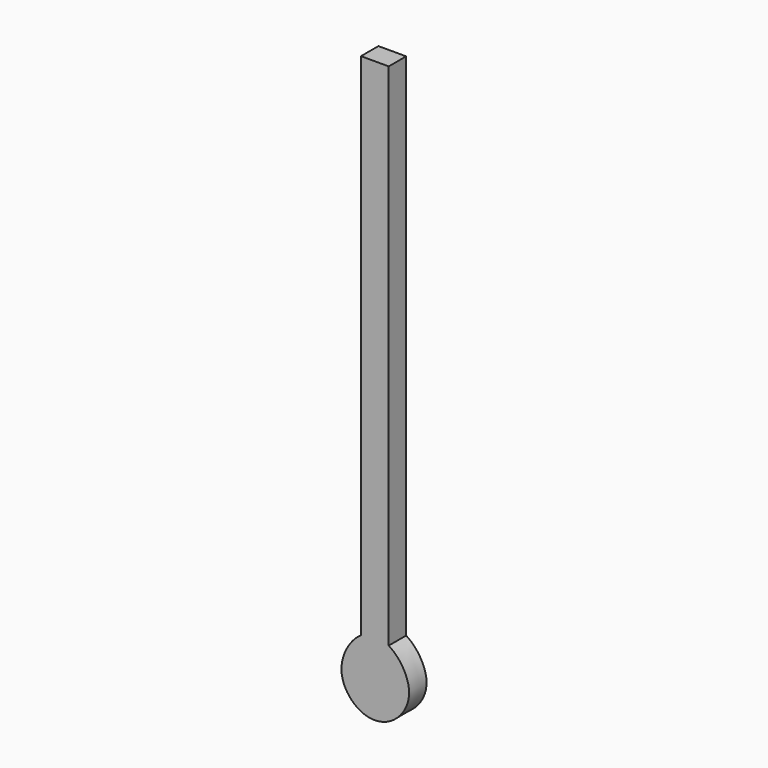
from build123d import *

# Parameters (mm, degrees)
F1_DEPTH = 2.54


with BuildPart() as f1:
    # F0 (on Front) → F1 (new body)
    with BuildSketch(Plane.XZ):
        with BuildLine():
            Line((-26.2354407459, 44.5510223508), (-29.4676441699, 44.5510223508))
            Line((-29.4676441699, 44.5510223508), (-29.4676441699, -14.8503407836))
            add(Edge.make_bspline(
                [(-26.2354407459, -14.8503407836), (-27.2819660544, -14.2090427676), (-28.4399500642, -14.18669105), (-29.4676441699, -14.8503407836)],
                knots=[0.8517191494, 0.8517191494, 0.8517191494, 0.8517191494, 1, 1, 1, 1], degree=3))
            Line((-26.2354407459, -14.8503407836), (-26.2354407459, 44.5510223508))
        make_face()
        with BuildLine():
            add(Edge.make_bspline(
                [(-26.2354407459, -14.8503407836), (-27.2819660544, -14.2090427676), (-28.4399500642, -14.18669105), (-29.4676441699, -14.8503407836)],
                knots=[0.8517191494, 0.8517191494, 0.8517191494, 0.8517191494, 1, 1, 1, 1], degree=3))
            add(Edge.make_bspline(
                [(-29.4676441699, -14.8503407836), (-30.7299121051, -15.6654702801), (-32.7800901937, -19.2244991193), (-29.7606286966, -23.2759537372), (-25.6540569152, -23.0801182417), (-22.8410424709, -18.863368119), (-24.9787086075, -15.6204509954), (-26.2354407459, -14.8503407836)],
                knots=[0, 0, 0, 0, 0.1821263371, 0.3503680367, 0.5044173995, 0.6736543583, 0.8517191494, 0.8517191494, 0.8517191494, 0.8517191494], degree=3))
        make_face()
    extrude(amount=F1_DEPTH)


solid = f1.part
